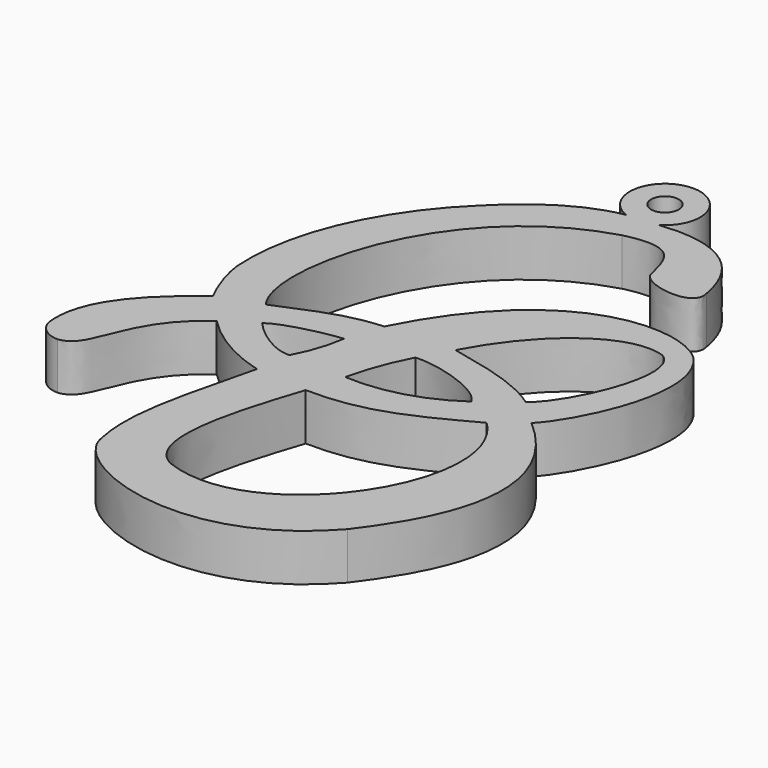
from build123d import *

# Parameters (mm, degrees)
F0_R     = 1.541714
F1_DEPTH = 5.25


with BuildPart() as f1:
    # F0 (on Top) → F1 (new body)
    with BuildSketch(Plane.XY):
        with BuildLine():
            add(Edge.make_bspline(
                [(-39.234068, 14.709434), (-35.821676, 18.285589), (-31.741335, 20.813416), (-28.060412, 21.400427)],
                knots=[0, 0, 0, 0, 13.023824, 13.023824, 13.023824, 13.023824], degree=3))
            add(Edge.make_bspline(
                [(-39.234068, 14.709434), (-44.434033, 9.709523), (-49.091313, 1.579042), (-48.498575, -7.294206)],
                knots=[0, 0, 0, 0, 23.87449, 23.87449, 23.87449, 23.87449], degree=3))
            add(Edge.make_bspline(
                [(-48.498575, -7.294206), (-48.312098, -9.073281), (-47.466565, -11.387973), (-46.594005, -13.059257)],
                knots=[0, 0, 0, 0, 6.071506, 6.071506, 6.071506, 6.071506], degree=3))
            add(Edge.make_bspline(
                [(-46.594005, -13.059257), (-51.85584, -16.912187), (-55.326007, -21.131784), (-54.675397, -25.848711)],
                knots=[0, 0, 0, 0, 15.128748, 15.128748, 15.128748, 15.128748], degree=3))
            ThreePointArc((-54.675397, -25.848711), (-53.725936, -27.271081), (-52.113619, -27.841207))
            add(Edge.make_bspline(
                [(-52.113619, -27.841207), (-48.665918, -27.506378), (-50.121121, -21.213111), (-43.411698, -16.496183)],
                knots=[0, 0, 0, 0, 14.298006, 14.298006, 14.298006, 14.298006], degree=3))
            ThreePointArc((-43.411698, -16.496183), (-39.541163, -19.502637), (-35.015989, -21.384818))
            add(Edge.make_bspline(
                [(-35.015989, -21.384818), (-37.141673, -30.065609), (-38.5387, -34.983439), (-37.43797, -40.036903)],
                knots=[0, 0, 0, 0, 18.808675, 18.808675, 18.808675, 18.808675], degree=3))
            add(Edge.make_bspline(
                [(-9.984496, -40.036903), (-20.42749, -51.944654), (-36.633965, -45.385001), (-37.43797, -40.036903)],
                knots=[0, 0, 0, 0, 27.453474, 27.453474, 27.453474, 27.453474], degree=3))
            add(Edge.make_bspline(
                [(-9.984496, -14.392133), (1.210287, -24.002717), (-6.147497, -34.946361), (-9.984496, -40.036903)],
                knots=[0, 0, 0, 0, 25.64477, 25.64477, 25.64477, 25.64477], degree=3))
            add(Edge.make_bspline(
                [(-6.307024, 3.602734), (-2.207622, -1.597791), (-7.333158, -11.79279), (-9.984496, -14.392133)],
                knots=[0, 0, 0, 0, 18.326618, 18.326618, 18.326618, 18.326618], degree=3))
            add(Edge.make_bspline(
                [(-31.371076, -8.189144), (-22.531703, 9.364952), (-9.091812, 7.34916), (-6.307024, 3.602734)],
                knots=[0, 0, 0, 0, 27.699369, 27.699369, 27.699369, 27.699369], degree=3))
            add(Edge.make_bspline(
                [(-42.004138, -11.402097), (-36.800269, -9.169074), (-34.760952, -8.423049), (-31.371076, -8.189144)],
                knots=[0, 0, 0, 0, 11.107884, 11.107884, 11.107884, 11.107884], degree=3))
            add(Edge.make_bspline(
                [(-25.930956, 18.182661), (-41.983377, 13.510846), (-46.004765, -6.258437), (-42.004138, -11.402097)],
                knots=[0, 0, 0, 0, 33.669052, 33.669052, 33.669052, 33.669052], degree=3))
            add(Edge.make_bspline(
                [(-19.430624, 14.216358), (-20.169115, 17.171623), (-20.674834, 19.440178), (-25.930956, 18.182661)],
                knots=[0, 0, 0, 0, 7.614846, 7.614846, 7.614846, 7.614846], degree=3))
            add(Edge.make_bspline(
                [(-13.350238, 14.216358), (-12.521998, 11.102053), (-19.320449, 12.233206), (-19.430624, 14.216358)],
                knots=[0, 0, 0, 0, 6.080386, 6.080386, 6.080386, 6.080386], degree=3))
            add(Edge.make_bspline(
                [(-24.679011, 21.678406), (-22.74786, 21.887188), (-14.866098, 22.765726), (-13.350238, 14.216358)],
                knots=[0, 0, 0, 0, 13.565518, 13.565518, 13.565518, 13.565518], degree=3))
            ThreePointArc((-24.679011, 21.678406), (-26.97945, 28.956423), (-28.060412, 21.400427))
        make_face()
        with BuildLine():
            add(Edge.make_bspline(
                [(-40.052891, -14.35038), (-38.893204, -15.726322), (-36.317203, -17.658971), (-34.448564, -17.57047)],
                knots=[0, 0, 0, 0, 6.463548, 6.463548, 6.463548, 6.463548], degree=3))
            add(Edge.make_bspline(
                [(-40.052891, -14.35038), (-38.873214, -13.307477), (-34.543491, -12.330866), (-32.659906, -12.174509)],
                knots=[0, 0, 0, 0, 7.706532, 7.706532, 7.706532, 7.706532], degree=3))
            ThreePointArc((-32.659906, -12.174509), (-33.308264, -14.954024), (-34.448564, -17.57047))
        make_face(mode=Mode.SUBTRACT)
        with BuildLine():
            add(Edge.make_bspline(
                [(-29.753655, -39.981414), (-34.422584, -37.67078), (-31.337596, -28.266594), (-29.212372, -21.832947)],
                knots=[0, 0, 0, 0, 18.156537, 18.156537, 18.156537, 18.156537], degree=3))
            add(Edge.make_bspline(
                [(-29.212372, -21.832947), (-22.684187, -21.978017), (-18.670561, -19.801956), (-13.061159, -16.803825)],
                knots=[0, 0, 0, 0, 16.91608, 16.91608, 16.91608, 16.91608], degree=3))
            add(Edge.make_bspline(
                [(-29.753655, -39.981414), (-17.026084, -44.860996), (-4.447781, -25.163252), (-13.061159, -16.803825)],
                knots=[0, 0, 0, 0, 28.562913, 28.562913, 28.562913, 28.562913], degree=3))
        make_face(mode=Mode.SUBTRACT)
        with BuildLine():
            ThreePointArc((-16.616, -14.512614), (-22.063718, -17.107114), (-28.06261, -17.756996))
            ThreePointArc((-28.06261, -17.756996), (-27.051078, -14.329094), (-25.590414, -11.067166))
            add(Edge.make_bspline(
                [(-25.590414, -11.067166), (-23.060093, -10.862005), (-17.589131, -12.503293), (-16.616, -14.512614)],
                knots=[0, 0, 0, 0, 9.613076, 9.613076, 9.613076, 9.613076], degree=3))
        make_face(mode=Mode.SUBTRACT)
        with BuildLine():
            add(Edge.make_bspline(
                [(-23.741798, -7.787112), (-20.216195, -8.558338), (-15.917903, -9.419195), (-12.841488, -11.621797)],
                knots=[0, 0, 0, 0, 11.555154, 11.555154, 11.555154, 11.555154], degree=3))
            add(Edge.make_bspline(
                [(-23.741798, -7.787112), (-19.572357, 0.079918), (-13.183153, 4.161766), (-9.049211, 2.69497)],
                knots=[0, 0, 0, 0, 18.04844, 18.04844, 18.04844, 18.04844], degree=3))
            add(Edge.make_bspline(
                [(-9.049211, 2.69497), (-5.512775, 0.57912), (-9.853426, -9.418107), (-12.841488, -11.621797)],
                knots=[0, 0, 0, 0, 14.81051, 14.81051, 14.81051, 14.81051], degree=3))
        make_face(mode=Mode.SUBTRACT)
        with Locations((-26.658739, 25.055223)):
            Circle(F0_R, mode=Mode.SUBTRACT)
    extrude(amount=F1_DEPTH)


solid = f1.part
